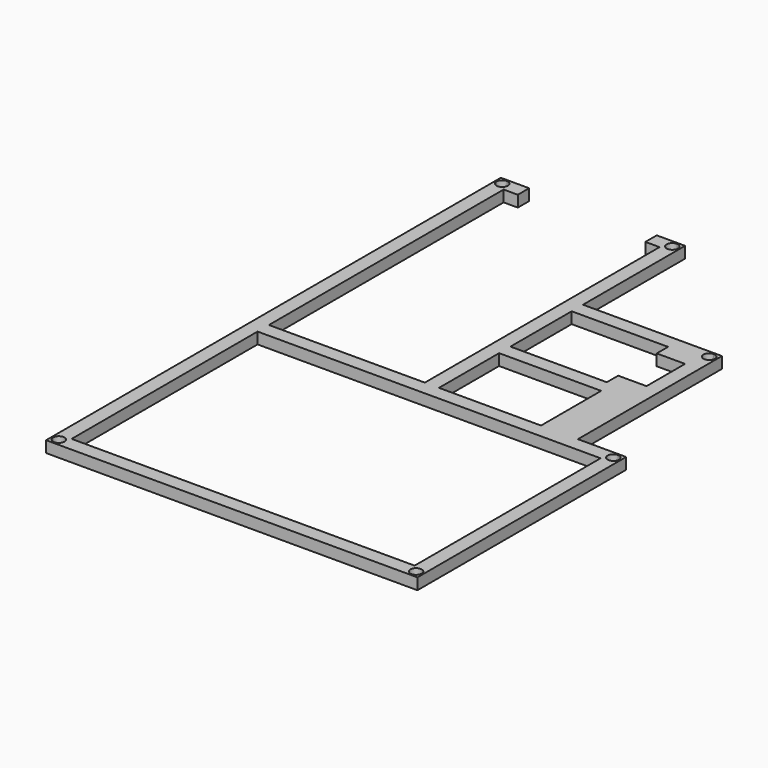
from build123d import *

# Parameters (mm, degrees)
F0_W     = 5
F0_H     = 5
F1_DEPTH = 4


with BuildPart() as f1:
    # F0 (on Top) → F1 (new body)
    with BuildSketch(Plane.XY):
        with BuildLine():
            Line((82.7990943193, -150.3260023594), (82.7990943193, -150.8260023594))
            Line((82.7990943193, -150.8260023594), (85.2990943193, -150.8260023594))
            Line((85.2990943193, -150.8260023594), (85.2990943193, -148.3260023594))
            Line((85.2990943193, -148.3260023594), (84.7990943193, -148.3260023594))
            ThreePointArc((84.7990943193, -148.3260023594), (84.2133078817, -149.7402159218), (82.7990943193, -150.3260023594))
        make_face()
        with BuildLine():
            Line((-45.2009056807, -148.3260023594), (-45.7009056807, -148.3260023594))
            Line((-45.7009056807, -148.3260023594), (-45.7009056807, -150.8260023594))
            Line((-45.7009056807, -150.8260023594), (-43.2009056807, -150.8260023594))
            Line((-43.2009056807, -150.8260023594), (-43.2009056807, -150.3260023594))
            ThreePointArc((-43.2009056807, -150.3260023594), (-44.615119243, -149.7402159218), (-45.2009056807, -148.3260023594))
        make_face()
        with BuildLine():
            Line((-43.2009056807, 49.1739976406), (-43.2009056807, 49.6739976406))
            Line((-43.2009056807, 49.6739976406), (-45.7009056807, 49.6739976406))
            Line((-45.7009056807, 49.6739976406), (-45.7009056807, 47.1739976406))
            Line((-45.7009056807, 47.1739976406), (-45.2009056807, 47.1739976406))
            ThreePointArc((-45.2009056807, 47.1739976406), (-44.615119243, 48.588211203), (-43.2009056807, 49.1739976406))
        make_face()
        with BuildLine():
            Line((85.2990943193, -61.3260023594), (85.2990943193, -58.8260023594))
            Line((85.2990943193, -58.8260023594), (82.7990943193, -58.8260023594))
            Line((82.7990943193, -58.8260023594), (82.7990943193, -59.3260023594))
            ThreePointArc((82.7990943193, -59.3260023594), (84.2133078817, -59.911788797), (84.7990943193, -61.3260023594))
            Line((84.7990943193, -61.3260023594), (85.2990943193, -61.3260023594))
        make_face()
        with BuildLine():
            Line((19.2990943193, 49.6739976406), (16.7990943193, 49.6739976406))
            Line((16.7990943193, 49.6739976406), (16.7990943193, 49.1739976406))
            ThreePointArc((16.7990943193, 49.1739976406), (18.2133078817, 48.588211203), (18.7990943193, 47.1739976406))
            Line((18.7990943193, 47.1739976406), (19.2990943193, 47.1739976406))
            Line((19.2990943193, 47.1739976406), (19.2990943193, 49.6739976406))
        make_face()
        with BuildLine():
            Line((80.2990943193, -63.8260023594), (85.2990943193, -63.8260023594))
            Line((85.2990943193, -63.8260023594), (85.2990943193, -61.3260023594))
            Line((85.2990943193, -61.3260023594), (84.7990943193, -61.3260023594))
            ThreePointArc((84.7990943193, -61.3260023594), (81.384880757, -62.7402159218), (82.7990943193, -59.3260023594))
            Line((82.7990943193, -59.3260023594), (82.7990943193, -58.8260023594))
            Line((82.7990943193, -58.8260023594), (80.2990943193, -58.8260023594))
            Line((80.2990943193, -58.8260023594), (80.2990943193, -63.8260023594))
        make_face()
        with BuildLine():
            Line((14.2990943193, 49.6739976406), (14.2990943193, 44.6739976406))
            Line((14.2990943193, 44.6739976406), (16.7990943193, 44.6739976406))
            Line((16.7990943193, 44.6739976406), (19.2990943193, 44.6739976406))
            Line((19.2990943193, 44.6739976406), (19.2990943193, 47.1739976406))
            Line((19.2990943193, 47.1739976406), (18.7990943193, 47.1739976406))
            ThreePointArc((18.7990943193, 47.1739976406), (15.384880757, 45.7597840782), (16.7990943193, 49.1739976406))
            Line((16.7990943193, 49.1739976406), (16.7990943193, 49.6739976406))
            Line((16.7990943193, 49.6739976406), (14.2990943193, 49.6739976406))
        make_face()
        with BuildLine():
            Line((-37.7009056807, -58.8260023594), (-40.7009056807, -58.8260023594))
            Line((-40.7009056807, -58.8260023594), (-40.7009056807, -52.8260023594))
            Line((-40.7009056807, -52.8260023594), (-40.7009056807, 28.4739976406))
            Line((-40.7009056807, 28.4739976406), (-40.7009056807, 44.6739976406))
            Line((-40.7009056807, 44.6739976406), (-40.7009056807, 49.6739976406))
            Line((-40.7009056807, 49.6739976406), (-43.2009056807, 49.6739976406))
            Line((-43.2009056807, 49.6739976406), (-43.2009056807, 49.1739976406))
            ThreePointArc((-43.2009056807, 49.1739976406), (-41.7866921183, 48.588211203), (-41.2009056807, 47.1739976406))
            ThreePointArc((-41.2009056807, 47.1739976406), (-43.2009056807, 45.1739976406), (-45.2009056807, 47.1739976406))
            Line((-45.2009056807, 47.1739976406), (-45.7009056807, 47.1739976406))
            Line((-45.7009056807, 47.1739976406), (-45.7009056807, -148.3260023594))
            Line((-45.7009056807, -148.3260023594), (-45.2009056807, -148.3260023594))
            ThreePointArc((-45.2009056807, -148.3260023594), (-43.2009056807, -146.3260023594), (-41.2009056807, -148.3260023594))
            ThreePointArc((-41.2009056807, -148.3260023594), (-41.7866921183, -149.7402159218), (-43.2009056807, -150.3260023594))
            Line((-43.2009056807, -150.3260023594), (-43.2009056807, -150.8260023594))
            Line((-43.2009056807, -150.8260023594), (82.7990943193, -150.8260023594))
            Line((82.7990943193, -150.8260023594), (82.7990943193, -150.3260023594))
            ThreePointArc((82.7990943193, -150.3260023594), (81.384880757, -146.911788797), (84.7990943193, -148.3260023594))
            Line((84.7990943193, -148.3260023594), (85.2990943193, -148.3260023594))
            Line((85.2990943193, -148.3260023594), (85.2990943193, -63.8260023594))
            Line((85.2990943193, -63.8260023594), (80.2990943193, -63.8260023594))
            Line((80.2990943193, -63.8260023594), (80.2990943193, -58.8260023594))
            Line((80.2990943193, -58.8260023594), (68.2990943193, -58.8260023594))
            Line((68.2990943193, -58.8260023594), (68.2990943193, -22.3260023594))
            Line((68.2990943193, -22.3260023594), (68.2990943193, -5.3260023594))
            Line((68.2990943193, -5.3260023594), (63.2990943193, -5.3260023594))
            Line((63.2990943193, -5.3260023594), (63.2990943193, -22.3260023594))
            Line((63.2990943193, -22.3260023594), (53.2990943193, -22.3260023594))
            Line((53.2990943193, -22.3260023594), (53.2990943193, -25.3760023594))
            Line((53.2990943193, -25.3760023594), (53.2990943193, -27.3260023594))
            Line((53.2990943193, -27.3260023594), (51.3490943193, -27.3260023594))
            Line((51.3490943193, -27.3260023594), (28.5490943193, -27.3260023594))
            Line((28.5490943193, -27.3260023594), (19.2990943193, -27.3260023594))
            Line((19.2990943193, -27.3260023594), (19.2990943193, -25.3760023594))
            Line((19.2990943193, -25.3760023594), (19.2990943193, -2.2760023594))
            Line((19.2990943193, -2.2760023594), (19.2990943193, -0.3260023594))
            Line((19.2990943193, -0.3260023594), (14.2990943193, -0.3260023594))
            Line((14.2990943193, -0.3260023594), (14.2990943193, -27.3260023594))
            Line((14.2990943193, -27.3260023594), (14.2990943193, -32.3260023594))
            Line((14.2990943193, -32.3260023594), (14.2990943193, -47.2260023594))
            Line((14.2990943193, -47.2260023594), (14.2990943193, -58.8260023594))
            Line((14.2990943193, -58.8260023594), (11.2990943193, -58.8260023594))
            Line((11.2990943193, -58.8260023594), (-37.7009056807, -58.8260023594))
        make_face()
        Polygon((76.8990943193, -63.8260023594), (80.2990943193, -63.8260023594), (80.2990943193, -67.2260023594), (80.2990943193, -142.4260023594), (80.2990943193, -145.8260023594), (76.8990943193, -145.8260023594), (-37.3009056807, -145.8260023594), (-40.7009056807, -145.8260023594), (-40.7009056807, -142.4260023594), (-40.7009056807, -67.2260023594), (-40.7009056807, -63.8260023594), (-37.3009056807, -63.8260023594), (14.2990943193, -63.8260023594), (19.2990943193, -63.8260023594), align=None, mode=Mode.SUBTRACT)
        Polygon((53.5990943193, -58.8260023594), (19.2990943193, -58.8260023594), (19.2990943193, -32.3260023594), (53.5990943193, -32.3260023594), (55.2990943193, -32.3260023594), (55.2990943193, -34.0260023594), (55.2990943193, -57.1260023594), (55.2990943193, -58.8260023594), align=None, mode=Mode.SUBTRACT)
        with Locations((16.7990943193, 2.1739976406)):
            Rectangle(F0_W, F0_H)
        Polygon((16.7990943193, 44.6739976406), (14.2990943193, 44.6739976406), (14.2990943193, 29.8739976406), (14.2990943193, 4.6739976406), (19.2990943193, 4.6739976406), (19.2990943193, 44.6739976406), align=None)
        with BuildLine():
            Line((19.2990943193, 4.6739976406), (19.2990943193, -0.3260023594))
            Line((19.2990943193, -0.3260023594), (28.5490943193, -0.3260023594))
            Line((28.5490943193, -0.3260023594), (51.3490943193, -0.3260023594))
            Line((51.3490943193, -0.3260023594), (53.2990943193, -0.3260023594))
            Line((53.2990943193, -0.3260023594), (53.2990943193, -2.2760023594))
            Line((53.2990943193, -2.2760023594), (53.2990943193, -5.3260023594))
            Line((53.2990943193, -5.3260023594), (63.2990943193, -5.3260023594))
            Line((63.2990943193, -5.3260023594), (68.2990943193, -5.3260023594))
            Line((68.2990943193, -5.3260023594), (68.2990943193, 2.1739976406))
            Line((68.2990943193, 2.1739976406), (67.7990943193, 2.1739976406))
            ThreePointArc((67.7990943193, 2.1739976406), (64.384880757, 0.7597840782), (65.7990943193, 4.1739976406))
            Line((65.7990943193, 4.1739976406), (65.7990943193, 4.6739976406))
            Line((65.7990943193, 4.6739976406), (19.2990943193, 4.6739976406))
        make_face()
        with BuildLine():
            Line((68.2990943193, 4.6739976406), (65.7990943193, 4.6739976406))
            Line((65.7990943193, 4.6739976406), (65.7990943193, 4.1739976406))
            ThreePointArc((65.7990943193, 4.1739976406), (67.2133078817, 3.588211203), (67.7990943193, 2.1739976406))
            Line((67.7990943193, 2.1739976406), (68.2990943193, 2.1739976406))
            Line((68.2990943193, 2.1739976406), (68.2990943193, 4.6739976406))
        make_face()
        with Locations((-38.2009056807, 47.1739976406)):
            Rectangle(F0_W, F0_H)
        with Locations((11.7990943193, 47.1739976406)):
            Rectangle(F0_W, F0_H)
    extrude(amount=F1_DEPTH)


solid = f1.part
